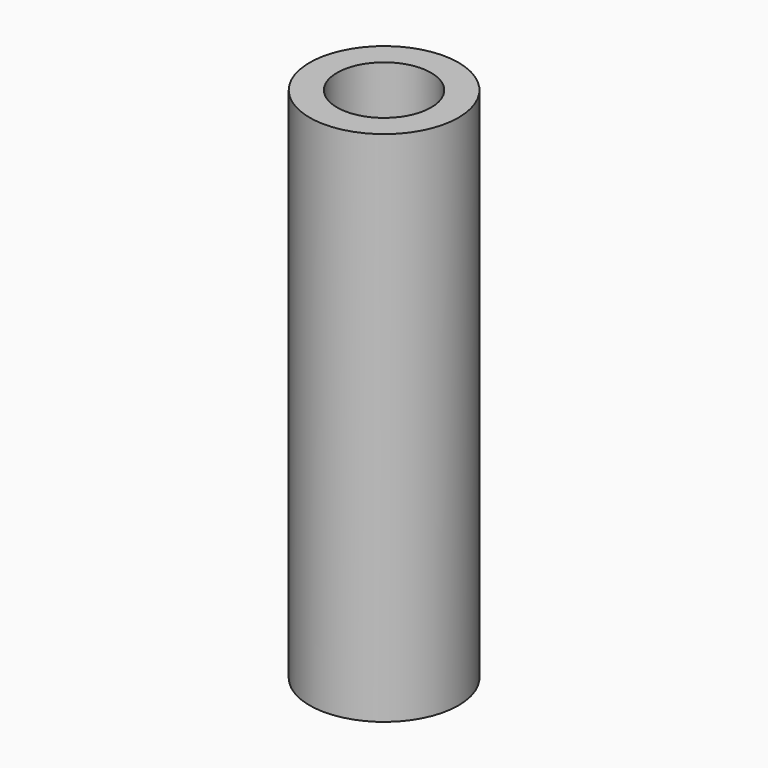
from build123d import *

# Parameters (mm, degrees)
F0_R     = 9.5
F1_DEPTH = 66
F2_R     = 6
F3_DEPTH = 30


with BuildPart() as f1:
    # F0 (on Top) → F1 (new body)
    with BuildSketch(Plane.XY):
        Circle(F0_R)
    extrude(amount=-F1_DEPTH)

    # F2 (on Top) → F3 (cut)
    with BuildSketch(Plane.XY):
        Circle(F2_R)
    extrude(amount=-F3_DEPTH, mode=Mode.SUBTRACT)


solid = f1.part
